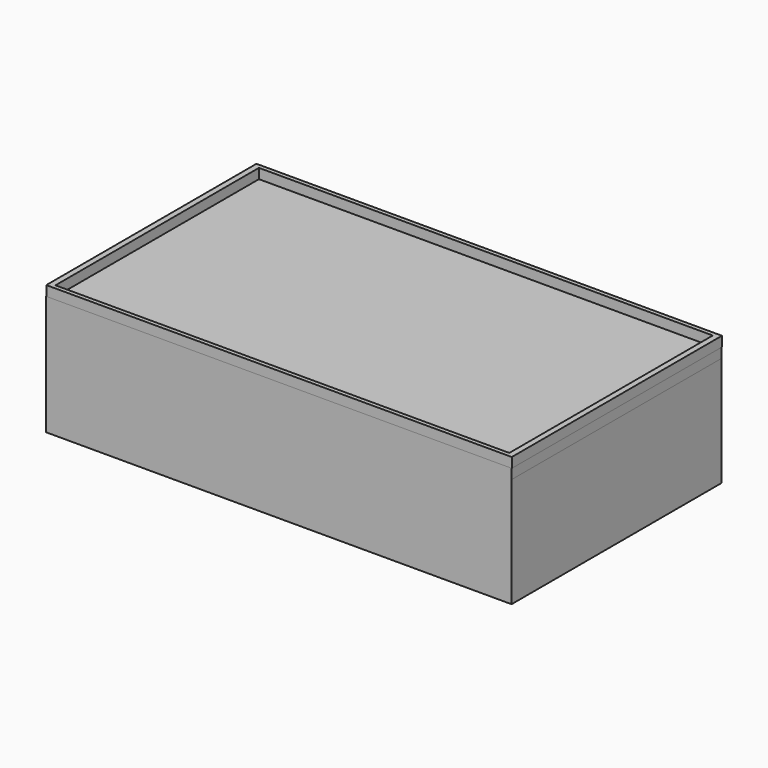
from build123d import *

# Parameters (mm, degrees)
SKETCH001_W           = 134
SKETCH001_H           = 5
EXTRUDE007_DEPTH      = 15
EXTRUDE007_DEPTH_BACK = 18
SKETCH_W              = 140
SKETCH_H              = 79
SKETCH_W_2            = 134
SKETCH_H_2            = 73
EXTRUDE_DEPTH         = 18
RECTANGLE_W           = 139.93866
RECTANGLE_H           = 78.819504
EXTRUDE006_DEPTH      = 3
SKETCH002_W           = 140
SKETCH002_H           = 79
SKETCH002_W_2         = 136.5
SKETCH002_H_2         = 76.5
EXTRUDE008_DEPTH      = 3


with BuildPart() as extrude007:
    # Sketch001 → Extrude007 (new body, two sides)
    with BuildSketch(Plane.XY) as extrude007_sk:
        with Locations((-0.442642, 54.631316)):
            Rectangle(SKETCH001_W, SKETCH001_H)
    extrude(amount=EXTRUDE007_DEPTH)
    extrude(extrude007_sk.sketch, amount=-EXTRUDE007_DEPTH_BACK)


with BuildPart() as extrude_body:
    # Sketch → Extrude (new body, symmetric)
    with BuildSketch(Plane.XY):
        with Locations((-0.443149, 17.272384)):
            Rectangle(SKETCH_W, SKETCH_H)
        with Locations((-0.443149, 17.272384)):
            Rectangle(SKETCH_W_2, SKETCH_H_2, mode=Mode.SUBTRACT)
    extrude(amount=EXTRUDE_DEPTH, both=True)


with BuildPart() as cut:
    # Rectangle → Extrude006 (new body)
    with BuildSketch(Plane(origin=(-70.381805, -22.047119, 18), x_dir=(1, 0, 0), z_dir=(0, 0, 1))):
        with Locations((69.96933, 39.409752)):
            Rectangle(RECTANGLE_W, RECTANGLE_H)
    extrude(amount=-EXTRUDE006_DEPTH)

    # Connect: union Extrude body
    add(extrude_body.part)

    # Cut: cut Extrude007
    add(extrude007.part, mode=Mode.SUBTRACT)


with BuildPart() as extrude008:
    # Sketch002 → Extrude008 (new body)
    with BuildSketch(Plane(origin=(-0.276695, 0.323605, 18), x_dir=(1, 0, 0), z_dir=(0, 0, 1))):
        with Locations((-0.098421, 16.948781)):
            Rectangle(SKETCH002_W, SKETCH002_H)
        with Locations((-0.098421, 16.948781)):
            Rectangle(SKETCH002_W_2, SKETCH002_H_2, mode=Mode.SUBTRACT)
    extrude(amount=EXTRUDE008_DEPTH)


solid = Compound([cut.part, extrude008.part])
